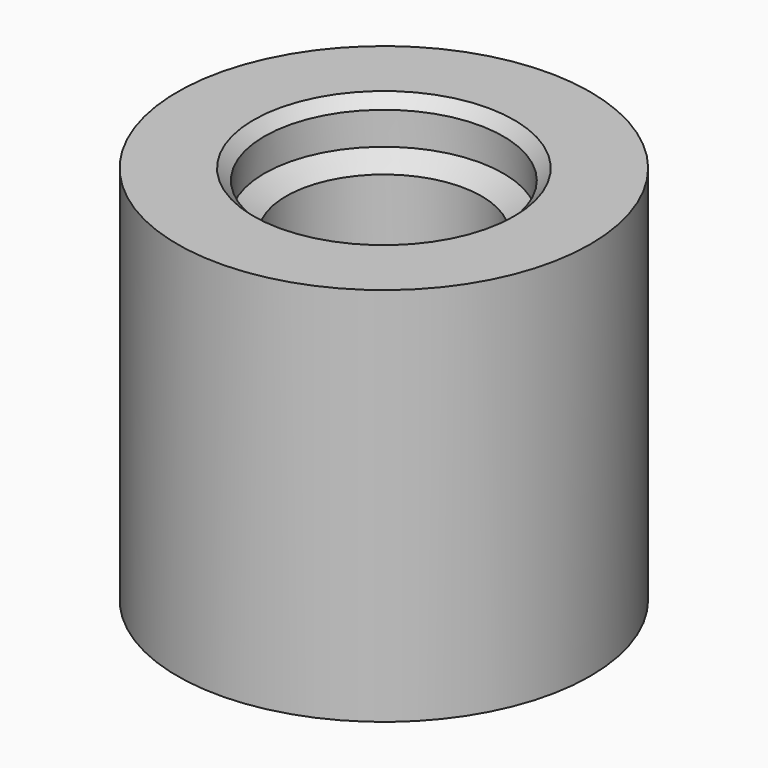
from build123d import *

# Parameters (mm, degrees)
SKETCH002_R      = 3.8
SKETCH002_R_2    = 1.8
PAD002_DEPTH     = 7
HOLE_D           = 4.4
HOLE_DEPTH       = 0.8
HOLE_CSINK_D     = 4.8
HOLE_CSINK_ANGLE = 90
HOLE_TIPS_R      = 2.2


with BuildPart() as part:
    # Sketch002 → Pad002 (new body)
    with BuildSketch(Plane.XY):
        Circle(SKETCH002_R)
        Circle(SKETCH002_R_2, mode=Mode.SUBTRACT)
    extrude(amount=-PAD002_DEPTH)

    # Hole
    with Locations(Plane.XY):
        with Locations((0, 0)):
            CounterSinkHole(HOLE_D / 2, HOLE_CSINK_D / 2, depth=HOLE_DEPTH, counter_sink_angle=HOLE_CSINK_ANGLE)

    # Hole tips → Hole tip 1 section 0
    with BuildSketch(Plane.XY.offset(-0.8), mode=Mode.PRIVATE) as hole_tip_1_s0:
        Circle(HOLE_TIPS_R)
    loft([hole_tip_1_s0.sketch, Vertex(0, 0, -2.121893)], mode=Mode.SUBTRACT)


solid = part.part
